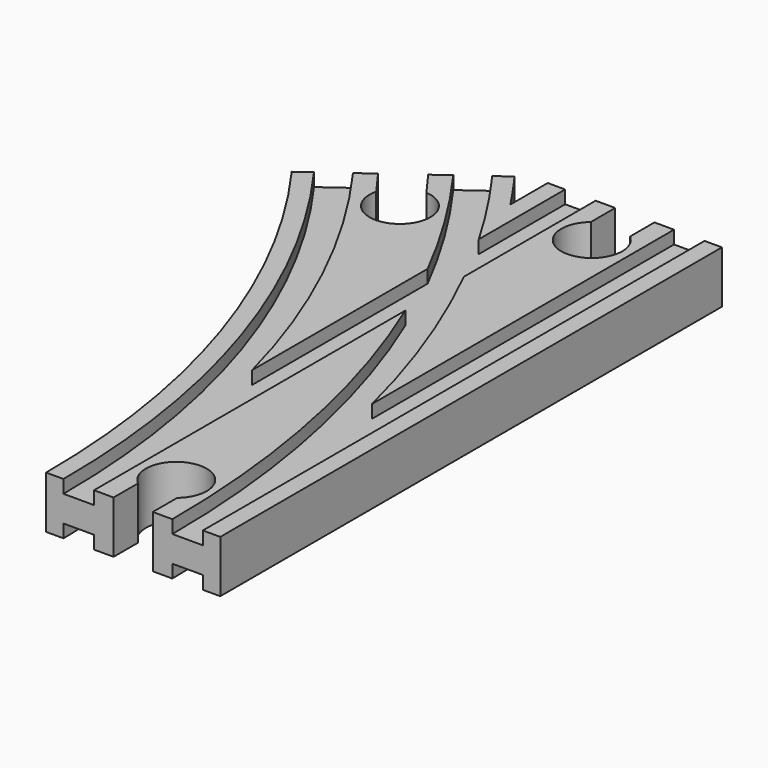
from build123d import *

# Parameters (mm, degrees)
SKETCH004_W          = 7
SKETCH004_H          = 3
SKETCH005_W          = 7
SKETCH005_H          = 3
POCKET_DEPTH         = 12.001
POCKET001_DEPTH      = 12.001
SKETCH009_W          = 7
SKETCH009_H          = 3
SKETCH010_W          = 7
SKETCH010_H          = 3
POCKET002_DEPTH      = 6.001
POCKET002_DEPTH_BACK = -6.001


with BuildPart() as part:
    # AdditivePipe: sweep along a path in Sketch002
    with BuildLine(Plane.XY) as additivepipe_path:
        ThreePointArc((0, 0), (-10.865453, 68.601773), (-42.398227, 130.488326))
    # Sketch → AdditivePipe (sweep)
    with BuildSketch(Plane.XZ):
        Polygon((-20, 6), (-20, -6), (-16, -6), (-16, -3), (-9, -3), (-9, -6), (9, -6), (9, -3), (16, -3), (16, -6), (20, -6), (20, 6), (16, 6), (16, 3), (9, 3), (9, 6), (-9, 6), (-9, 3), (-16, 3), (-16, 6), align=None)
    sweep(path=additivepipe_path.line)

    # AdditivePipe001: sweep along a path in Sketch001
    with BuildLine(Plane.XY) as additivepipe001_path:
        Line((0, 0), (0, 144))
    # Sketch → AdditivePipe001 (sweep)
    with BuildSketch(Plane.XZ):
        Polygon((-20, 6), (-20, -6), (-16, -6), (-16, -3), (-9, -3), (-9, -6), (9, -6), (9, -3), (16, -3), (16, -6), (20, -6), (20, 6), (16, 6), (16, 3), (9, 3), (9, 6), (-9, 6), (-9, 3), (-16, 3), (-16, 6), align=None)
    sweep(path=additivepipe001_path.line)

    # SubtractivePipe: sweep along a path in Sketch001
    with BuildLine(Plane.XY) as subtractivepipe_path:
        Line((0, 0), (0, 144))
    # Sketch004 → SubtractivePipe (sweep, cut)
    with BuildSketch(Plane.XZ):
        with Locations((-12.5, 4.5)):
            Rectangle(SKETCH004_W, SKETCH004_H)
    sweep(path=subtractivepipe_path.line, mode=Mode.SUBTRACT)

    # SubtractivePipe001: sweep along a path in Sketch002
    with BuildLine(Plane.XY) as subtractivepipe001_path:
        ThreePointArc((0, 0), (-10.865453, 68.601773), (-42.398227, 130.488326))
    # Sketch004 → SubtractivePipe001 (sweep, cut)
    with BuildSketch(Plane.XZ):
        with Locations((-12.5, 4.5)):
            Rectangle(SKETCH004_W, SKETCH004_H)
    sweep(path=subtractivepipe001_path.line, mode=Mode.SUBTRACT)

    # SubtractivePipe002: sweep along a path in Sketch002
    with BuildLine(Plane.XY) as subtractivepipe002_path:
        ThreePointArc((0, 0), (-10.865453, 68.601773), (-42.398227, 130.488326))
    # Sketch005 (on Face1 of SubtractivePipe001) → SubtractivePipe002 (sweep, cut)
    with BuildSketch(Plane.XZ):
        with Locations((12.5, 4.5)):
            Rectangle(SKETCH005_W, SKETCH005_H)
    sweep(path=subtractivepipe002_path.line, mode=Mode.SUBTRACT)

    # SubtractivePipe003: sweep along a path in Sketch001
    with BuildLine(Plane.XY) as subtractivepipe003_path:
        Line((0, 0), (0, 144))
    # Sketch005 (on Face1 of SubtractivePipe001) → SubtractivePipe003 (sweep, cut)
    with BuildSketch(Plane.XZ):
        with Locations((12.5, 4.5)):
            Rectangle(SKETCH005_W, SKETCH005_H)
    subtractivepipe003 = sweep(path=subtractivepipe003_path.line, mode=Mode.SUBTRACT)

    # Mirrored: SubtractivePipe003 across XY
    add(subtractivepipe003.mirror(Plane.XY), mode=Mode.SUBTRACT)

    # Sketch006 (on Face53 of Mirrored) → Pocket (cut, through all)
    with BuildSketch(Plane(origin=(0, 0, 6), x_dir=(-1, 0, 0), z_dir=(0, 0, 1))):
        with BuildLine():
            Line((38.757651, -133.13336), (46.038804, -127.843292))
            Line((46.038804, -127.843292), (41.924307, -122.180173))
            ThreePointArc((41.924307, -122.180173), (31.017586, -114.824218), (34.643154, -127.470241))
            Line((38.757651, -133.13336), (34.643154, -127.470241))
        make_face()
    extrude(amount=-POCKET_DEPTH, mode=Mode.SUBTRACT)

    # Sketch007 (on Face63 of Pocket) → Pocket001 (cut, through all)
    with BuildSketch(Plane(origin=(0, 0, 6), x_dir=(-1, 0, 0), z_dir=(0, 0, 1))):
        with BuildLine():
            Line((-4.5, -144), (4.5, -144))
            Line((4.5, -144), (4.5, -137))
            ThreePointArc((4.5, -137), (0, -124.638097), (-4.5, -137))
            Line((-4.5, -144), (-4.5, -137))
        make_face()
    extrude(amount=-POCKET001_DEPTH, mode=Mode.SUBTRACT)

    # SubtractivePipe004: sweep along a path in Sketch002
    with BuildLine(Plane.XY) as subtractivepipe004_path:
        ThreePointArc((0, 0), (-10.865453, 68.601773), (-42.398227, 130.488326))
    # Sketch009 → SubtractivePipe004 (sweep, cut)
    with BuildSketch(Plane.XZ):
        with Locations((-12.5, -4.5)):
            Rectangle(SKETCH009_W, SKETCH009_H)
    sweep(path=subtractivepipe004_path.line, mode=Mode.SUBTRACT)

    # SubtractivePipe005: sweep along a path in Sketch001
    with BuildLine(Plane.XY) as subtractivepipe005_path:
        Line((0, 0), (0, 144))
    # Sketch009 → SubtractivePipe005 (sweep, cut)
    with BuildSketch(Plane.XZ):
        with Locations((-12.5, -4.5)):
            Rectangle(SKETCH009_W, SKETCH009_H)
    sweep(path=subtractivepipe005_path.line, mode=Mode.SUBTRACT)

    # SubtractivePipe006: sweep along a path in Sketch002
    with BuildLine(Plane.XY) as subtractivepipe006_path:
        ThreePointArc((0, 0), (-10.865453, 68.601773), (-42.398227, 130.488326))
    # Sketch010 (on Face1 of SubtractivePipe005) → SubtractivePipe006 (sweep, cut)
    with BuildSketch(Plane.XZ):
        with Locations((12.5, -4.5)):
            Rectangle(SKETCH010_W, SKETCH010_H)
    sweep(path=subtractivepipe006_path.line, mode=Mode.SUBTRACT)

    # Sketch011 → Pocket002 (cut, two sides)
    with BuildSketch(Plane.XY) as pocket002_sk:
        with BuildLine():
            Line((-4.5, 0), (4.5, 0))
            Line((4.5, 0), (4.5, 7))
            ThreePointArc((4.5, 7), (0, 19.361903), (-4.5, 7))
            Line((-4.5, 0), (-4.5, 7))
        make_face()
    extrude(amount=-POCKET002_DEPTH, mode=Mode.SUBTRACT)
    extrude(pocket002_sk.sketch, amount=-POCKET002_DEPTH_BACK, mode=Mode.SUBTRACT)


solid = part.part
